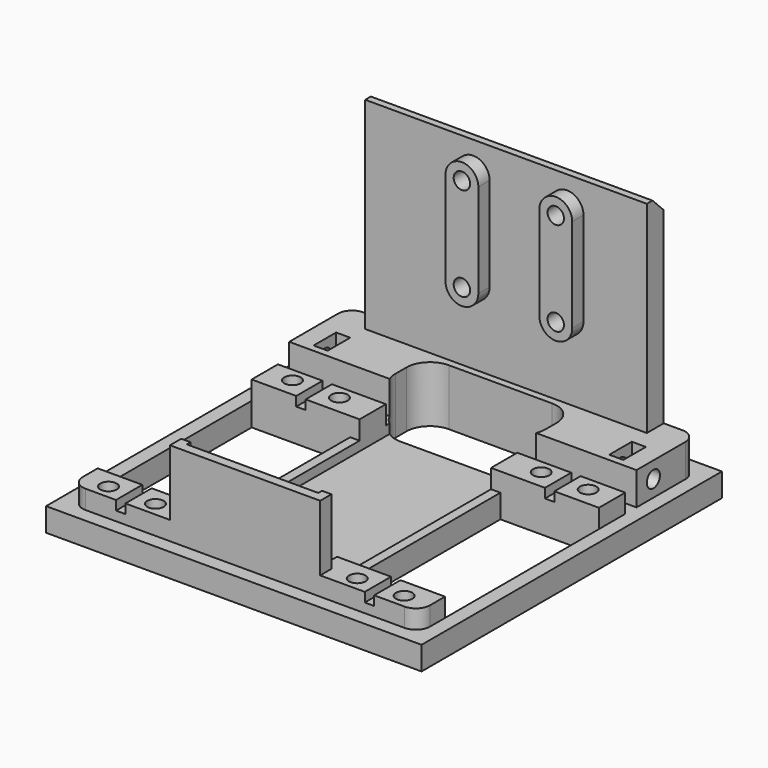
from build123d import *

# Parameters (mm, degrees)
SKETCH018_W             = 10
SKETCH018_H             = 4
PAD013_DEPTH            = 10
BOX035_W                = 6
BOX035_H                = 38
BOX035_DEPTH            = 68
CYLINDER040_R           = 1.75
CYLINDER040_DEPTH       = 31
CYLINDER040_PITCH_ANGLE = 90
CYLINDER041_R           = 1.75
CYLINDER041_DEPTH       = 31
CYLINDER041_PITCH_ANGLE = 90
CYLINDER_R              = 1.75
CYLINDER_DEPTH          = 31
CYLINDER_PITCH_ANGLE    = 90
CYLINDER053_R           = 1.75
CYLINDER053_DEPTH       = 31
CYLINDER053_PITCH_ANGLE = 90
PAD_DEPTH               = 5
BOX037_W                = 61
BOX037_H                = 28
BOX037_DEPTH            = 44
BOX036_W                = 13
BOX036_H                = 32
BOX036_DEPTH            = 17
FILLET018002_R          = 5
BOX033_W                = 4.5
BOX033_H                = 60
BOX033_DEPTH            = 54
CYLINDER013_R           = 1.75
CYLINDER013_DEPTH       = 31
CYLINDER013_ROLL_ANGLE  = 90
CYLINDER012_R           = 1.75
CYLINDER012_DEPTH       = 31
CYLINDER012_ROLL_ANGLE  = 90
BOX018_W                = 6
BOX018_H                = 3
BOX018_DEPTH            = 12
BOX016_W                = 6
BOX016_H                = 3
BOX016_DEPTH            = 12
BOX017_W                = 16
BOX017_H                = 74
BOX017_DEPTH            = 12
BOX015_W                = 41
BOX015_H                = 21
BOX015_DEPTH            = 43
BOX014_W                = 41
BOX014_H                = 21
BOX014_DEPTH            = 43
CYLINDER008_R           = 1.75
CYLINDER008_DEPTH       = 21.5
CYLINDER008_PITCH_ANGLE = 90
CYLINDER009_R           = 3
CYLINDER009_DEPTH       = 21.5
CYLINDER009_PITCH_ANGLE = 90
FUSION009_PITCH_ANGLE   = 90
FUSION010_PITCH_ANGLE   = 90
FUSION008_PITCH_ANGLE   = 90
FUSION005_PITCH_ANGLE   = 90
BOX012_W                = 70
BOX012_H                = 2
BOX012_DEPTH            = 9
BOX011_W                = 7
BOX011_H                = 74
BOX011_DEPTH            = 9
BOX010_W                = 7
BOX010_H                = 74
BOX010_DEPTH            = 9
BOX009_W                = 80
BOX009_H                = 80
BOX009_DEPTH            = 5
BOX032_W                = 3
BOX032_H                = 32
BOX032_DEPTH            = 20
CHAMFER003_SIZE         = 3
FILLET018013_R          = 3
CUT113_PLACEMENT_ANGLE  = -90


with BuildPart() as pad013:
    # Sketch018 → Pad013 (new body)
    with BuildSketch(Plane(origin=(70, 275, 66), x_dir=(0, 1, 0), z_dir=(0, 0, -1))):
        with Locations((-265.5, -19)):
            Rectangle(SKETCH018_W, SKETCH018_H)
        with Locations((-212.5, -19)):
            Rectangle(SKETCH018_W, SKETCH018_H)
        with Locations((-265.5, -68)):
            Rectangle(SKETCH018_W, SKETCH018_H)
        with Locations((-212.5, -68)):
            Rectangle(SKETCH018_W, SKETCH018_H)
    extrude(amount=PAD013_DEPTH)


with BuildPart() as cube035:
    # Box035 → Box035 (new body)
    with BuildSketch(Plane(origin=(-23.5, 17, 68), x_dir=(1, 0, 0), z_dir=(0, 0, 1))):
        with Locations((3, 19)):
            Rectangle(BOX035_W, BOX035_H)
    extrude(amount=BOX035_DEPTH)


with BuildPart() as cylinder095:
    # Cylinder040 → Cylinder040 (new body)
    with BuildSketch(Plane.XY):
        Circle(CYLINDER040_R)
    extrude(amount=CYLINDER040_DEPTH)


with BuildPart() as cylinder095_1:
    # Cylinder040 pitch: moved
    add(cylinder095.part.rotate(Axis((0, 0, 0), (0, 1, 0)), CYLINDER040_PITCH_ANGLE))


with BuildPart() as cylinder095_2:
    # Cylinder040 placement: moved
    add(cylinder095_1.part.moved(Location((-49.5, 49, 91.5))))


with BuildPart() as cylinder096:
    # Cylinder041 → Cylinder041 (new body)
    with BuildSketch(Plane.XY):
        Circle(CYLINDER041_R)
    extrude(amount=CYLINDER041_DEPTH)


with BuildPart() as cylinder096_1:
    # Cylinder041 pitch: moved
    add(cylinder096.part.rotate(Axis((0, 0, 0), (0, 1, 0)), CYLINDER041_PITCH_ANGLE))


with BuildPart() as cylinder096_2:
    # Cylinder041 placement: moved
    add(cylinder096_1.part.moved(Location((-49.5, 49, 111.5))))


with BuildPart() as cylinder094:
    # Cylinder → Cylinder (new body)
    with BuildSketch(Plane.XY):
        Circle(CYLINDER_R)
    extrude(amount=CYLINDER_DEPTH)


with BuildPart() as cylinder094_1:
    # Cylinder pitch: moved
    add(cylinder094.part.rotate(Axis((0, 0, 0), (0, 1, 0)), CYLINDER_PITCH_ANGLE))


with BuildPart() as cylinder094_2:
    # Cylinder placement: moved
    add(cylinder094_1.part.moved(Location((-49.5, 29, 111.5))))


with BuildPart() as fusion038:
    # Cylinder053 → Cylinder053 (new body)
    with BuildSketch(Plane.XY):
        Circle(CYLINDER053_R)
    extrude(amount=CYLINDER053_DEPTH)


with BuildPart() as fusion038_1:
    # Cylinder053 pitch: moved
    add(fusion038.part.rotate(Axis((0, 0, 0), (0, 1, 0)), CYLINDER053_PITCH_ANGLE))


with BuildPart() as fusion038_2:
    # Cylinder053 placement: moved
    add(fusion038_1.part.moved(Location((-49.5, 29, 91.5))))

    # Fusion038: union Cylinder095, Cylinder096, Cylinder094
    add(cylinder095_2.part)
    add(cylinder096_2.part)
    add(cylinder094_2.part)


with BuildPart() as fusion038_3:
    # Fusion038 placement: moved
    add(fusion038_2.part.moved(Location((14, 0, 0))))


with BuildPart() as pad:
    # Sketch → Pad (new body)
    with BuildSketch(Plane(origin=(-22, 0, 0), x_dir=(0, -1, 0), z_dir=(-1, 0, 0))):
        with BuildLine():
            ThreePointArc((-45.5, 111.5), (-49, 115), (-52.5, 111.5))
            Line((-52.5, 111.5), (-52.5, 91.5))
            ThreePointArc((-52.5, 91.5), (-49, 88), (-45.5, 91.500001))
            Line((-45.5, 111.5), (-45.5, 91.500001))
        make_face()
    extrude(amount=-PAD_DEPTH)


with BuildPart() as clone_of_pad:
    # Clone base: copy of Pad
    add(pad.part)


with BuildPart() as clone_of_pad_1:
    # Clone placement: moved
    add(clone_of_pad.part.moved(Location((0, -20, 0))))


with BuildPart() as fusion039:
    # Fusion039 base: copy of Pad
    add(pad.part)

    # Fusion039: union Clone of Pad
    add(clone_of_pad_1.part)


with BuildPart() as fusion039_1:
    # Fusion039 placement: moved
    add(fusion039.part.moved(Location((4.5, 0, 0))))


with BuildPart() as cube036:
    # Box037 → Box037 (new body)
    with BuildSketch(Plane(origin=(-9, 22, 66), x_dir=(1, 0, 0), z_dir=(0, 0, 1))):
        with Locations((30.5, 14)):
            Rectangle(BOX037_W, BOX037_H)
    extrude(amount=BOX037_DEPTH)


with BuildPart() as fillet018002:
    # Box036 → Box036 (new body)
    with BuildSketch(Plane(origin=(-14, 20, 62), x_dir=(1, 0, 0), z_dir=(0, 0, 1))):
        with Locations((6.5, 16)):
            Rectangle(BOX036_W, BOX036_H)
    extrude(amount=BOX036_DEPTH)

    # Fillet018002
    fillet018002_edges = [fillet018002.edges().sort_by_distance(p)[0] for p in [
        (-14, 20, 70.5),
        (-14, 52, 70.5),
        (-1, 20, 70.5),
        (-1, 52, 70.5),
    ]]
    fillet(fillet018002_edges, radius=FILLET018002_R)


with BuildPart() as cube033:
    # Box033 → Box033 (new body)
    with BuildSketch(Plane(origin=(-20, 6, 64), x_dir=(1, 0, 0), z_dir=(0, 0, 1))):
        with Locations((2.25, 30)):
            Rectangle(BOX033_W, BOX033_H)
    extrude(amount=BOX033_DEPTH)


with BuildPart() as cylinder001:
    # Cylinder013 → Cylinder013 (new body)
    with BuildSketch(Plane.XY):
        Circle(CYLINDER013_R)
    extrude(amount=CYLINDER013_DEPTH)


with BuildPart() as cylinder001_1:
    # Cylinder013 roll: moved
    add(cylinder001.part.rotate(Axis((0, 0, 0), (1, 0, 0)), CYLINDER013_ROLL_ANGLE))


with BuildPart() as cylinder001_2:
    # Cylinder013 placement: moved
    add(cylinder001_1.part.moved(Location((-8.5, 11, 71.5))))


with BuildPart() as cylinder030:
    # Cylinder012 → Cylinder012 (new body)
    with BuildSketch(Plane.XY):
        Circle(CYLINDER012_R)
    extrude(amount=CYLINDER012_DEPTH)


with BuildPart() as cylinder030_1:
    # Cylinder012 roll: moved
    add(cylinder030.part.rotate(Axis((0, 0, 0), (1, 0, 0)), CYLINDER012_ROLL_ANGLE))


with BuildPart() as cylinder030_2:
    # Cylinder012 placement: moved
    add(cylinder030_1.part.moved(Location((-8.5, 92, 71.5))))


with BuildPart() as cube018:
    # Box018 → Box018 (new body)
    with BuildSketch(Plane(origin=(-11.5, 66, 69), x_dir=(1, 0, 0), z_dir=(0, 0, 1))):
        with Locations((3, 1.5)):
            Rectangle(BOX018_W, BOX018_H)
    extrude(amount=BOX018_DEPTH)


with BuildPart() as cube016:
    # Box016 → Box016 (new body)
    with BuildSketch(Plane(origin=(-11.5, 3, 69), x_dir=(1, 0, 0), z_dir=(0, 0, 1))):
        with Locations((3, 1.5)):
            Rectangle(BOX016_W, BOX016_H)
    extrude(amount=BOX016_DEPTH)


with BuildPart() as cube017:
    # Box017 → Box017 (new body)
    with BuildSketch(Plane(origin=(-20, -1, 63), x_dir=(1, 0, 0), z_dir=(0, 0, 1))):
        with Locations((8, 37)):
            Rectangle(BOX017_W, BOX017_H)
    extrude(amount=BOX017_DEPTH)


with BuildPart() as cube015:
    # Box015 → Box015 (new body)
    with BuildSketch(Plane(origin=(6, 52, 59), x_dir=(1, 0, 0), z_dir=(0, 0, 1))):
        with Locations((20.5, 10.5)):
            Rectangle(BOX015_W, BOX015_H)
    extrude(amount=BOX015_DEPTH)


with BuildPart() as cube014:
    # Box014 → Box014 (new body)
    with BuildSketch(Plane(origin=(6, -1, 59), x_dir=(1, 0, 0), z_dir=(0, 0, 1))):
        with Locations((20.5, 10.5)):
            Rectangle(BOX014_W, BOX014_H)
    extrude(amount=BOX014_DEPTH)


with BuildPart() as joint_d010:
    # Cylinder008 → Cylinder008 (new body)
    with BuildSketch(Plane.XY):
        Circle(CYLINDER008_R)
    extrude(amount=CYLINDER008_DEPTH)


with BuildPart() as joint_d010_1:
    # Cylinder008 pitch: moved
    add(joint_d010.part.rotate(Axis((0, 0, 0), (0, 1, 0)), CYLINDER008_PITCH_ANGLE))


with BuildPart() as joint_d010_2:
    # Cylinder008 placement: moved
    add(joint_d010_1.part.moved(Location((16, -24.5, 7))))


with BuildPart() as joint_d011:
    # Cylinder009 → Cylinder009 (new body)
    with BuildSketch(Plane.XY):
        Circle(CYLINDER009_R)
    extrude(amount=CYLINDER009_DEPTH)


with BuildPart() as joint_d011_1:
    # Cylinder009 pitch: moved
    add(joint_d011.part.rotate(Axis((0, 0, 0), (0, 1, 0)), CYLINDER009_PITCH_ANGLE))


with BuildPart() as joint_d011_2:
    # Cylinder009 placement: moved
    add(joint_d011_1.part.moved(Location((32, -24.5, 7))))


with BuildPart() as fusion009:
    # Fusion009 base: copy of Joint-D011
    add(joint_d011_2.part)

    # Fusion009: union Joint-D010
    add(joint_d010_2.part)


with BuildPart() as fusion009_1:
    # Fusion009 pitch: moved
    add(fusion009.part.rotate(Axis((0, 0, 0), (0, 1, 0)), FUSION009_PITCH_ANGLE))


with BuildPart() as fusion009_2:
    # Fusion009 placement: moved
    add(fusion009_1.part.moved(Location((-5, 39, 98))))


with BuildPart() as fusion010:
    # Fusion010 base: copy of Joint-D011
    add(joint_d011_2.part)

    # Fusion010: union Joint-D010
    add(joint_d010_2.part)


with BuildPart() as fusion010_1:
    # Fusion010 pitch: moved
    add(fusion010.part.rotate(Axis((0, 0, 0), (0, 1, 0)), FUSION010_PITCH_ANGLE))


with BuildPart() as fusion010_2:
    # Fusion010 placement: moved
    add(fusion010_1.part.moved(Location((-5, 29, 98))))


with BuildPart() as fusion008:
    # Fusion008 base: copy of Joint-D011
    add(joint_d011_2.part)

    # Fusion008: union Joint-D010
    add(joint_d010_2.part)


with BuildPart() as fusion008_1:
    # Fusion008 pitch: moved
    add(fusion008.part.rotate(Axis((0, 0, 0), (0, 1, 0)), FUSION008_PITCH_ANGLE))


with BuildPart() as fusion008_2:
    # Fusion008 placement: moved
    add(fusion008_1.part.moved(Location((44, 29, 98))))


with BuildPart() as fusion005:
    # Fusion005 base: copy of Joint-D011
    add(joint_d011_2.part)

    # Fusion005: union Joint-D010
    add(joint_d010_2.part)


with BuildPart() as fusion005_1:
    # Fusion005 pitch: moved
    add(fusion005.part.rotate(Axis((0, 0, 0), (0, 1, 0)), FUSION005_PITCH_ANGLE))


with BuildPart() as fusion005_2:
    # Fusion005 placement: moved
    add(fusion005_1.part.moved(Location((44, 39, 98))))


with BuildPart() as cube012:
    # Box012 → Box012 (new body)
    with BuildSketch(Plane(origin=(-6, 8.5, 70), x_dir=(1, 0, 0), z_dir=(0, 0, 1))):
        with Locations((35, 1)):
            Rectangle(BOX012_W, BOX012_H)
    extrude(amount=BOX012_DEPTH)


with BuildPart() as fusion011:
    # Fusion011 base: copy of Cube012
    add(cube012.part)

    # Fusion011: union Fusion009, Fusion010, Fusion008, Fusion005
    add(fusion009_2.part)
    add(fusion010_2.part)
    add(fusion008_2.part)
    add(fusion005_2.part)


with BuildPart() as fusion012:
    # Fusion012 base: copy of Cube012
    add(cube012.part)

    # Fusion012: union Fusion009, Fusion010, Fusion008, Fusion005
    add(fusion009_2.part)
    add(fusion010_2.part)
    add(fusion008_2.part)
    add(fusion005_2.part)


with BuildPart() as fusion012_1:
    # Fusion012 placement: moved
    add(fusion012.part.moved(Location((0, 53, 0))))


with BuildPart() as cube011:
    # Box011 → Box011 (new body)
    with BuildSketch(Plane(origin=(47, -1, 63), x_dir=(1, 0, 0), z_dir=(0, 0, 1))):
        with Locations((3.5, 37)):
            Rectangle(BOX011_W, BOX011_H)
    extrude(amount=BOX011_DEPTH)


with BuildPart() as cube010:
    # Box010 → Box010 (new body)
    with BuildSketch(Plane(origin=(-1, -1, 63), x_dir=(1, 0, 0), z_dir=(0, 0, 1))):
        with Locations((3.5, 37)):
            Rectangle(BOX010_W, BOX010_H)
    extrude(amount=BOX010_DEPTH)


with BuildPart() as cut050:
    # Box009 → Box009 (new body)
    with BuildSketch(Plane(origin=(-23, -4, 63), x_dir=(1, 0, 0), z_dir=(0, 0, 1))):
        with Locations((40, 40)):
            Rectangle(BOX009_W, BOX009_H)
    extrude(amount=BOX009_DEPTH)

    # Fusion013: union Cube011, Cube010
    add(cube011.part)
    add(cube010.part)

    # Cut018: cut Fusion012
    add(fusion012_1.part, mode=Mode.SUBTRACT)

    # Cut019: cut Fusion011
    add(fusion011.part, mode=Mode.SUBTRACT)

    # Cut020: cut Cube014
    add(cube014.part, mode=Mode.SUBTRACT)

    # Cut021: cut Cube015
    add(cube015.part, mode=Mode.SUBTRACT)

    # Fusion014: union Cube017
    add(cube017.part)

    # Cut022: cut Cube016
    add(cube016.part, mode=Mode.SUBTRACT)

    # Cut023: cut Cube018
    add(cube018.part, mode=Mode.SUBTRACT)

    # Cut024: cut Cylinder030
    add(cylinder030_2.part, mode=Mode.SUBTRACT)

    # Cut050: cut Cylinder001
    add(cylinder001_2.part, mode=Mode.SUBTRACT)


with BuildPart() as obj1:
    # Box032 → Box032 (new body)
    with BuildSketch(Plane(origin=(51, 20, 66), x_dir=(1, 0, 0), z_dir=(0, 0, 1))):
        with Locations((1.5, 16)):
            Rectangle(BOX032_W, BOX032_H)
    extrude(amount=BOX032_DEPTH)

    # Fusion025: union Cut050
    add(cut050.part)

    # Fusion026: union Cube033
    add(cube033.part)

    # Cut051: cut Fillet018002
    add(fillet018002.part, mode=Mode.SUBTRACT)

    # Cut066: cut Cube036
    add(cube036.part, mode=Mode.SUBTRACT)

    # Chamfer003
    chamfer003_edges = [obj1.edges().sort_by_distance(p)[0] for p in [
        (-20, 36, 118),
    ]]
    chamfer(chamfer003_edges, length=CHAMFER003_SIZE)

    # Fusion040: union Fusion039
    add(fusion039_1.part)

    # Cut067: cut Fusion038
    add(fusion038_3.part, mode=Mode.SUBTRACT)

    # Cut068: cut Cube035
    add(cube035.part, mode=Mode.SUBTRACT)

    # Fillet018013
    fillet018013_edges = [obj1.edges().sort_by_distance(p)[0] for p in [
        (-20, -1, 71.5),
        (-20, 73, 71.5),
        (54, -1, 70),
        (54, 73, 70),
    ]]
    fillet(fillet018013_edges, radius=FILLET018013_R)

    # Cut113: cut Pad013
    add(pad013.part, mode=Mode.SUBTRACT)


with BuildPart() as obj1_1:
    # Cut113 placement: moved
    add(obj1.part.moved(Location((-275, 70, 2))).rotate(Axis((-275, 70, 2), (0, 0, 1)), CUT113_PLACEMENT_ANGLE))


solid = obj1_1.part
